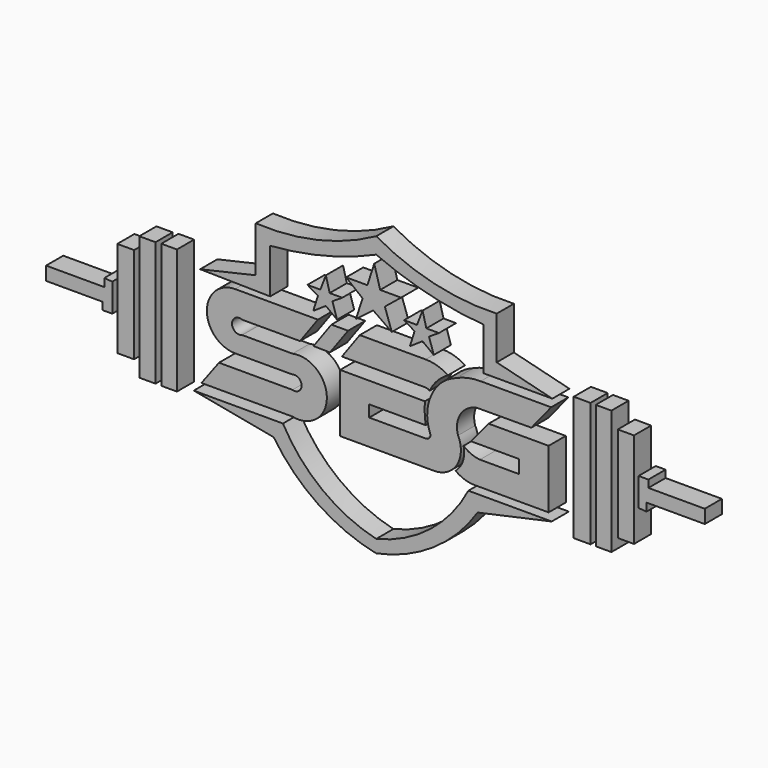
from build123d import *

# Parameters (mm, degrees)
F0_W     = 2.917025
F0_H     = 23.336196
F0_W_2   = 3.025058
F0_H_2   = 23.228157
F0_W_3   = 3.133103
F0_H_3   = 17.934299
F0_W_4   = 3.1331
F0_W_5   = 2.917021
F0_W_6   = 3.025062
F0_H_4   = 17.826262
F1_DEPTH = 4


with BuildPart() as f1:
    # F0 (on Front) → F1 (new body)
    with BuildSketch(Plane.XZ):
        with BuildLine():
            Line((-18.360175, 29.837262), (-28.731817, 27.460426))
            Line((-28.731817, 27.460426), (-15.659228, 27.24435))
            Line((-15.659228, 27.24435), (-15.659228, 35.563271))
            ThreePointArc((-15.659228, 35.563271), (-5.560472, 37.199644), (4.111716, 40.533017))
            ThreePointArc((4.111716, 40.533017), (13.897301, 37.211928), (24.098735, 35.563271))
            Line((24.098735, 35.563271), (24.098735, 27.568465))
            Line((24.098735, 27.568465), (36.955252, 27.568465))
            Line((36.955252, 27.568465), (26.583608, 30.161375))
            Line((26.583608, 30.161375), (26.583608, 38.156182))
            ThreePointArc((26.583608, 38.156182), (14.970461, 39.287974), (4.111716, 43.55808))
            ThreePointArc((4.111716, 43.55808), (-6.762464, 39.397518), (-18.360175, 38.37226))
            Line((-18.360175, 38.37226), (-18.360175, 29.837262))
        make_face()
        with BuildLine():
            Line((-13.282392, 7.149293), (-29.920235, 7.149293))
            Line((-29.920235, 7.149293), (-15.011, 4.340306))
            ThreePointArc((-15.011, 4.340306), (-6.711737, -3.965185), (4.111716, -8.516208))
            ThreePointArc((4.111716, -8.516208), (14.859618, -3.991748), (23.018356, 4.340306))
            Line((23.018356, 4.340306), (36.847211, 7.365369))
            Line((36.847211, 7.365369), (21.289749, 7.365369))
            ThreePointArc((21.289749, 7.365369), (14.169619, -1.255427), (4.111716, -6.139375))
            ThreePointArc((4.111716, -6.139375), (-5.975783, -1.315054), (-13.282392, 7.149293))
        make_face()
        with Locations((-34.511848, 17.628974)):
            Rectangle(F0_W, F0_H)
        with Locations((-38.563272, 17.574955)):
            Rectangle(F0_W_2, F0_H_2)
        with Locations((-42.614694, 17.628974)):
            Rectangle(F0_W_3, F0_H_3)
        with Locations((42.519206, 17.574955)):
            Rectangle(F0_W_4, F0_H_2)
        with Locations((46.516609, 17.574955)):
            Rectangle(F0_W_5, F0_H_2)
        with Locations((50.67607, 17.574955)):
            Rectangle(F0_W_6, F0_H_4)
        Polygon((-45.113314, 14.824063), (-45.113314, 20.089325), (-46.601322, 20.203786), (-46.601322, 18.715777), (-57.460032, 18.715777), (-57.460032, 16.197609), (-46.944711, 16.197609), (-46.944711, 14.824063), align=None)
        Polygon((53.042778, 20.115187), (53.042778, 14.849925), (54.530785, 14.735464), (54.530785, 16.223473), (65.389496, 16.223473), (65.389496, 18.741641), (54.874175, 18.741641), (54.874175, 20.115187), align=None)
        Polygon((-6.307463, 31.403811), (-8.711336, 31.403811), (-6.762973, 30.222766), (-7.628314, 27.481353), (-5.277231, 29.067773), (-3.193445, 27.481353), (-4.058785, 30.222766), (-2.219936, 31.403811), (-4.563566, 31.403811), (-5.277231, 34.093976), align=None)
        Polygon((0.340029, 28.745491), (3.549, 31.200001), (7.019212, 28.782552), (5.719735, 32.533981), (8.75185, 34.985866), (4.853417, 34.985866), (3.746455, 38.942028), (2.467324, 34.985866), (-1.498819, 34.985866), (1.565928, 32.533981), align=None)
        Polygon((11.720847, 31.469355), (9.316974, 31.469355), (11.265337, 30.288311), (10.399996, 27.546898), (12.75108, 29.133318), (14.834866, 27.546898), (13.969526, 30.288311), (15.808374, 31.469355), (13.464744, 31.469355), (12.75108, 34.159521), align=None)
        with BuildLine():
            Line((-10.104408, 21.720048), (-6.762973, 26.328867))
            Line((-6.762973, 26.328867), (-22.195523, 26.328867))
            ThreePointArc((-22.195523, 26.328867), (-27.472356, 21.052034), (-22.195523, 15.7752))
            Line((-22.195523, 15.7752), (-11.494022, 15.7752))
            ThreePointArc((-11.494022, 15.7752), (-9.803198, 14.515352), (-11.494022, 13.255504))
            Line((-11.494022, 13.255504), (-25.216663, 13.255504))
            Line((-25.216663, 13.255504), (-28.477632, 8.868717))
            Line((-28.477632, 8.868717), (-11.494022, 8.868717))
            ThreePointArc((-11.494022, 8.868717), (-5.093214, 14.035207), (-11.494022, 19.201698))
            Line((-11.494022, 19.201698), (-20.867361, 19.201698))
            ThreePointArc((-20.867361, 19.201698), (-22.784725, 20.460873), (-20.867361, 21.720048))
            Line((-20.867361, 21.720048), (-10.104408, 21.720048))
        make_face()
        Polygon((-1.143724, 26.328867), (-4.24384, 26.328867), (-7.585275, 21.720048), (-4.52187, 21.669413), align=None)
        with BuildLine():
            Line((13.34219, 26.328867), (1.043928, 26.328867))
            Line((1.043928, 26.328867), (-2.297507, 21.720048))
            Line((-2.297507, 21.720048), (13.266011, 21.720048))
            ThreePointArc((13.266011, 21.720048), (13.694347, 21.646), (14.072965, 21.432452))
            ThreePointArc((14.072965, 21.432452), (15.499101, 23.520872), (17.490635, 25.079448))
            ThreePointArc((17.490635, 25.079448), (15.508445, 26.009733), (13.34219, 26.328867))
        make_face()
        with BuildLine():
            ThreePointArc((13.34219, 15.524202), (13.154137, 17.462209), (13.191477, 19.40896))
            Line((13.191477, 19.40896), (-2.617514, 19.420345))
            Line((-2.617514, 19.420345), (-2.617514, 8.547293))
            Line((-2.617514, 8.547293), (14.928817, 8.547293))
            ThreePointArc((14.928817, 8.547293), (18.632648, 10.199588), (19.877462, 14.059496))
            ThreePointArc((19.877462, 14.059496), (19.710661, 14.956158), (19.37234, 15.803132))
            ThreePointArc((19.37234, 15.803132), (19.828735, 19.448747), (22.880699, 21.494308))
            Line((22.880699, 21.494308), (33.052407, 21.532437))
            Line((33.052407, 21.532437), (36.740046, 26.085043))
            Line((36.740046, 26.085043), (23.597317, 26.085043))
            ThreePointArc((23.597317, 26.085043), (21.245002, 25.857594), (19.004105, 25.106926))
            ThreePointArc((19.004105, 25.106926), (16.307164, 23.497174), (14.465537, 20.952925))
            ThreePointArc((14.465537, 20.952925), (13.626173, 17.635021), (14.236932, 14.267531))
            ThreePointArc((14.236932, 14.267531), (13.983505, 13.619365), (13.34219, 13.349068))
            Line((13.34219, 13.349068), (2.812496, 13.356651))
            Line((2.812496, 13.356651), (2.812496, 15.531785))
            Line((2.812496, 15.531785), (13.34219, 15.524202))
        make_face()
        with BuildLine():
            ThreePointArc((20.401722, 14.443579), (20.297513, 11.942299), (18.916195, 9.854423))
            ThreePointArc((18.916195, 9.854423), (20.481661, 9.019415), (22.221338, 8.670922))
            Line((22.221338, 8.670922), (36.26788, 8.670922))
            Line((36.26788, 8.670922), (36.26788, 19.601882))
            Line((36.26788, 19.601882), (25.08281, 19.601882))
            Line((25.08281, 19.601882), (21.787236, 15.642961))
            Line((21.787236, 15.642961), (30.703217, 15.642961))
            Line((30.703217, 15.642961), (30.703217, 13.16824))
            Line((30.703217, 13.16824), (23.462653, 13.16824))
            ThreePointArc((23.462653, 13.16824), (21.829472, 13.559382), (20.401722, 14.443579))
        make_face()
    extrude(amount=F1_DEPTH)


solid = f1.part
